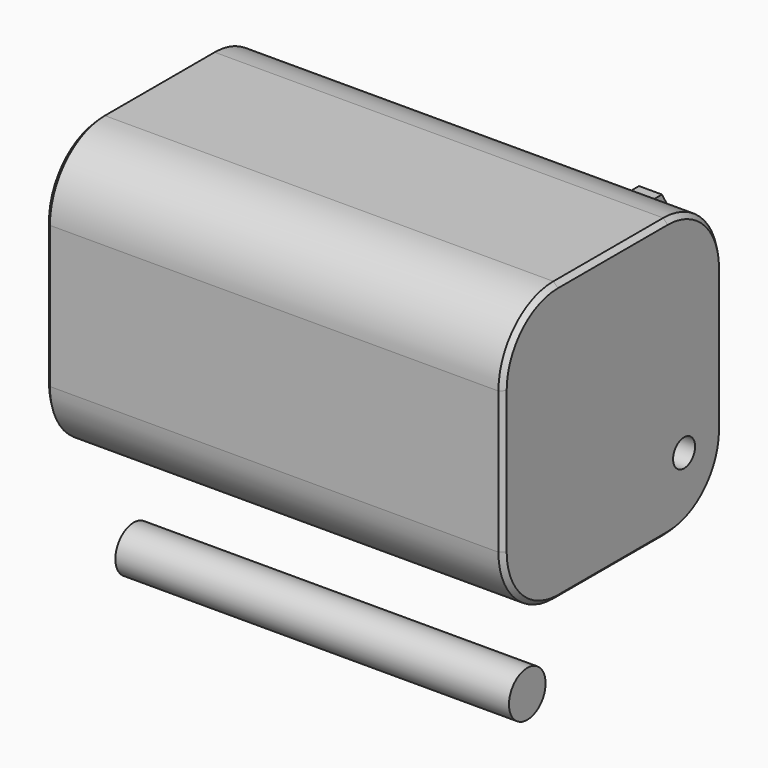
from build123d import *

# Parameters (mm, degrees)
F0_W       = 100
F0_H       = 60
F1_DEPTH   = 61
F2_R       = 15
F3_R       = 5
F4_DEPTH   = 86
F5_R       = 6
F6_DEPTH   = 5
F7_R       = 3
F8_DEPTH   = 25
F9_R       = 3
F10_DEPTH  = 20
F12_DEPTH  = 5
F13_SIZE   = 1
F13_2_SIZE = 1


with BuildPart() as f1:
    # F0 (on Top) → F1 (new body)
    with BuildSketch(Plane.XY):
        Rectangle(F0_W, F0_H)
    extrude(amount=F1_DEPTH)

    # F2
    f2_edges = [f1.edges().sort_by_distance(p)[0] for p in [
        (0, -30, 61),
        (0, 30, 61),
        (0, -30, 0),
        (0, 30, 0),
    ]]
    fillet(f2_edges, radius=F2_R)

    # F5 (on face) → F6 (cut)
    with BuildSketch(Plane(origin=(-50, 0, 0), x_dir=(0, -1, 0), z_dir=(-1, 0, 0))):
        with Locations((-18.8861116767, 52.3861013353)):
            Circle(F5_R)
        with Locations((-15, 33.8421463966)):
            Circle(F5_R)
        with Locations((19.6746885777, 50.0783026218)):
            Circle(F5_R)
        with Locations((0, 52.145909518)):
            Circle(F5_R)
        with Locations((-18.4935294092, 14.5634403452)):
            Circle(F5_R)
    extrude(amount=-F6_DEPTH, mode=Mode.SUBTRACT)

    # F7 (on face) → F8 (cut)
    with BuildSketch(Plane.YZ.offset(50)):
        with Locations((19.458046183, 14.3336672336)):
            Circle(F7_R)
    extrude(amount=-F8_DEPTH, mode=Mode.SUBTRACT)

    # F13#2
    f13_2_edges = [f1.edges().sort_by_distance(p)[0] for p in [
        (50, 25.606602, 56.606602),
        (0, 30, 46),
        (0, 15, 61),
        (-50, 25.606602, 56.606602),
    ]]
    chamfer(f13_2_edges, length=F13_2_SIZE)


with BuildPart() as f4:
    # F3 (on Right) → F4 (new body)
    with BuildSketch(Plane.YZ):
        with Locations((-68.3655515313, 15.3749547899)):
            Circle(F3_R)
    extrude(amount=F4_DEPTH)


with BuildPart() as f10:
    # F9 (on Right) → F10 (new body)
    with BuildSketch(Plane.YZ):
        with Locations((67.351475358, 24.9788053334)):
            Circle(F9_R)
    extrude(amount=-F10_DEPTH)

    # F11 (on face) → F12 (join)
    with BuildSketch(Plane.YZ):
        Polygon((69.6608764348, 20.9788053334), (71.9702775115, 24.9788053334), (69.6608764348, 28.9788053334), (65.0420742813, 28.9788053334), (62.7326732045, 24.9788053334), (65.0420742813, 20.9788053334), align=None)
    extrude(amount=F12_DEPTH)

    # F13
    f13_edges = [f10.edges().sort_by_distance(p)[0] for p in [
        (-20, 64.351475, 24.978805),
    ]]
    chamfer(f13_edges, length=F13_SIZE)


solid = Compound([f1.part, f4.part, f10.part])
